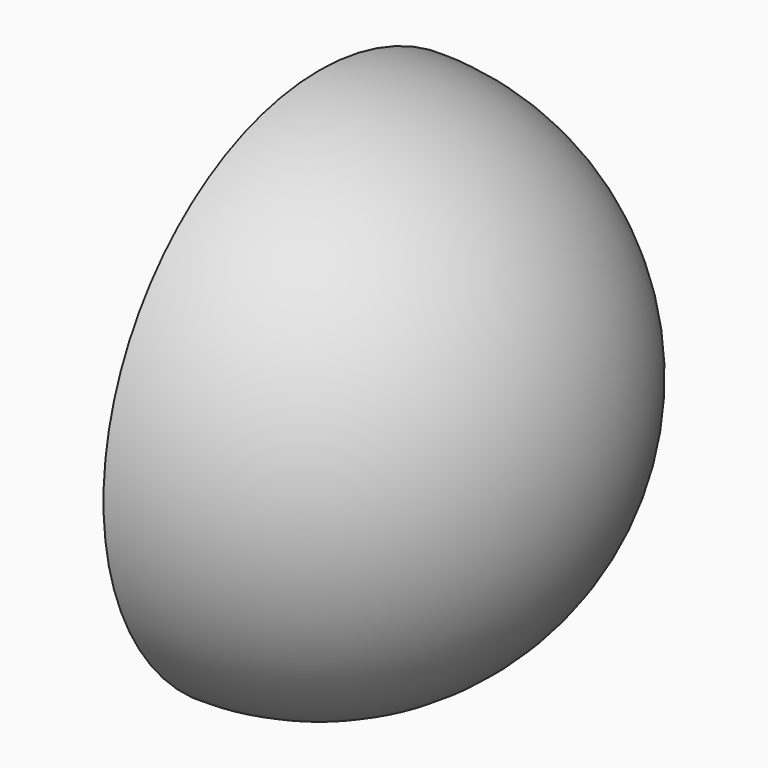
from build123d import *

# Parameters (mm, degrees)
F1_ANGLE_BACK = 90
F1_ANGLE      = 180
F2_T          = -2.5


with BuildPart() as f1:
    # F0 (on Front) → F1 (revolve)
    with BuildSketch(Plane.XZ, mode=Mode.PRIVATE) as f1_sk:
        with BuildLine():
            Line((0, 27.09444111), (0, -27.09444111))
            ThreePointArc((0, -27.09444111), (27.09444111, 0), (0, 27.09444111))
        make_face()
    revolve(f1_sk.sketch.rotate(Axis((0, 0, 0), (0, 0, -1)), -F1_ANGLE_BACK), axis=Axis((0, 0, 0), (0, 0, -1)), revolution_arc=F1_ANGLE)

    # F2
    f2_openings = [f1.faces().sort_by_distance(p)[0] for p in [
        (0, 0, 0),
    ]]
    offset(amount=F2_T, openings=f2_openings)


solid = f1.part
